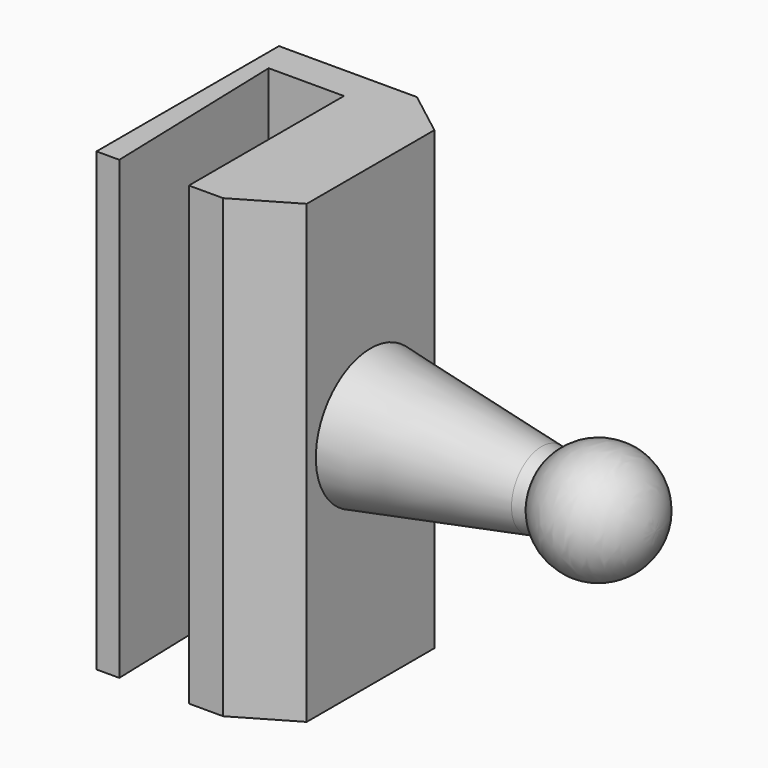
from build123d import *

# Parameters (mm, degrees)
F1_DEPTH = 20


with BuildPart() as f1:
    # F0 (on Top) → F1 (new body, symmetric)
    with BuildSketch(Plane.XY):
        Polygon((-33.935995, -3.126303), (-33.935995, -23.126303), (-31.935995, -23.126303), (-32.435995, -6.126303), (-25.835995, -6.126303), (-25.835995, -23.126303), (-22.835995, -23.126303), (-17.836405, -20.207281), (-17.836405, -19.207281), (-17.836405, -13.207281), (-17.836405, -7.207281), (-17.836405, -6.207281), (-21.835995, -3.126303), align=None)
    extrude(amount=F1_DEPTH, both=True)


with BuildPart() as f2:
    # F0 (on Top) → F2 (revolve)
    with BuildSketch(Plane.XY):
        with BuildLine():
            Line((-2.836405, -9.907281), (-17.836405, -7.207281))
            Line((-17.836405, -7.207281), (-17.836405, -13.207281))
            Line((-17.836405, -13.207281), (-2.836405, -13.207281))
            ThreePointArc((-2.836405, -13.207281), (-2.558363, -11.563166), (-1.75516, -10.101905))
            Line((-1.75516, -10.101905), (-2.836405, -9.907281))
        make_face()
    revolve(axis=Axis((-10.336405, -13.207281, 0), (1, 0, 0)))

    # F0 (on Top) → F3 (revolve)
    with BuildSketch(Plane.XY):
        with BuildLine():
            ThreePointArc((-1.75516, -10.101905), (-2.558363, -11.563166), (-2.836405, -13.207281))
            Line((-2.836405, -13.207281), (7.163595, -13.207281))
            ThreePointArc((7.163595, -13.207281), (3.807709, -8.485323), (-1.75516, -10.101905))
        make_face()
    revolve(axis=Axis((2.163595, -13.207281, 0), (1, 0, 0)))


solid = Compound([f1.part, f2.part])
